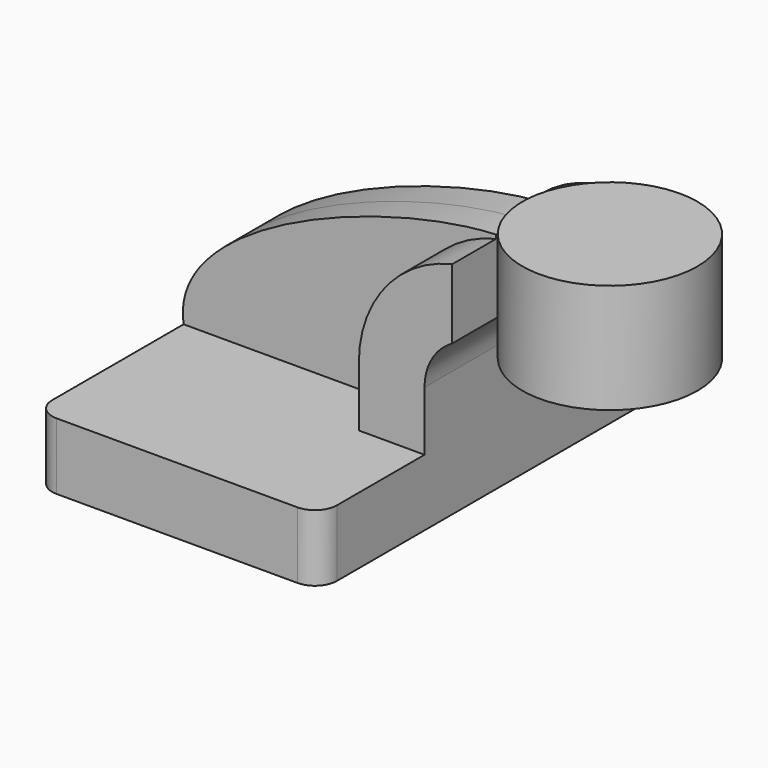
from build123d import *

# Parameters (mm, degrees)
F1_DEPTH = 63.5
F2_DEPTH = 25.4
F3_DEPTH = 9.525
F0_W     = 25.4
F0_H     = 31.75
F5_R     = 6.35


with BuildPart() as f1:
    # F0 (on Front) → F1 (new body, symmetric)
    with BuildSketch(Plane.XZ):
        Polygon((22.225, 9.652), (-41.275, 9.652), (-41.275, -9.652), (41.275, -9.652), (41.275, 9.652), align=None)
    extrude(amount=F1_DEPTH, both=True)

    # F0 (on Front) → F2 (join, symmetric)
    with BuildSketch(Plane.XZ):
        with BuildLine():
            Line((22.225, 26.8732), (22.225, 9.652))
            Line((22.225, 9.652), (41.275, 9.652))
            Line((41.275, 9.652), (41.275, 26.8732))
            ThreePointArc((41.275, 26.8732), (43.430921, 34.860847), (49.313111, 40.678952))
            Line((49.313111, 40.678952), (49.313111, 60.907577))
            ThreePointArc((49.313111, 60.907577), (29.823649, 48.622364), (22.225, 26.8732))
        make_face()
    extrude(amount=F2_DEPTH, both=True)

    # F0 (on Front) → F3 (join, symmetric)
    with BuildSketch(Plane.XZ):
        with BuildLine():
            add(Edge.make_bspline(
                [(-41.275, 9.652), (-45.728246, 37.67528), (17.61539, 60.750201), (49.313111, 62.013091)],
                knots=[0, 0, 0, 0, 102.039446, 102.039446, 102.039446, 102.039446], degree=3))
            Line((-41.275, 9.652), (22.225, 9.652))
            Line((22.225, 9.652), (22.225, 26.8732))
            ThreePointArc((22.225, 26.8732), (29.823649, 48.622364), (49.313111, 60.907577))
            Line((49.313111, 60.907577), (49.313111, 62.013091))
        make_face()
    extrude(amount=F3_DEPTH, both=True)

    # F0 (on Front) → F4 (revolve)
    with BuildSketch(Plane.XZ):
        with Locations((87.413111, 50.673)):
            Rectangle(F0_W, F0_H)
    revolve(axis=Axis((74.713111, 0, 50.673), (0, 0, 1)))

    # F5
    f5_edges = [f1.edges().sort_by_distance(p)[0] for p in [
        (41.275, -63.5, 0),
        (-41.275, -63.5, 0),
        (-41.275, 63.5, 0),
        (41.275, 63.5, 0),
    ]]
    fillet(f5_edges, radius=F5_R)


solid = f1.part
